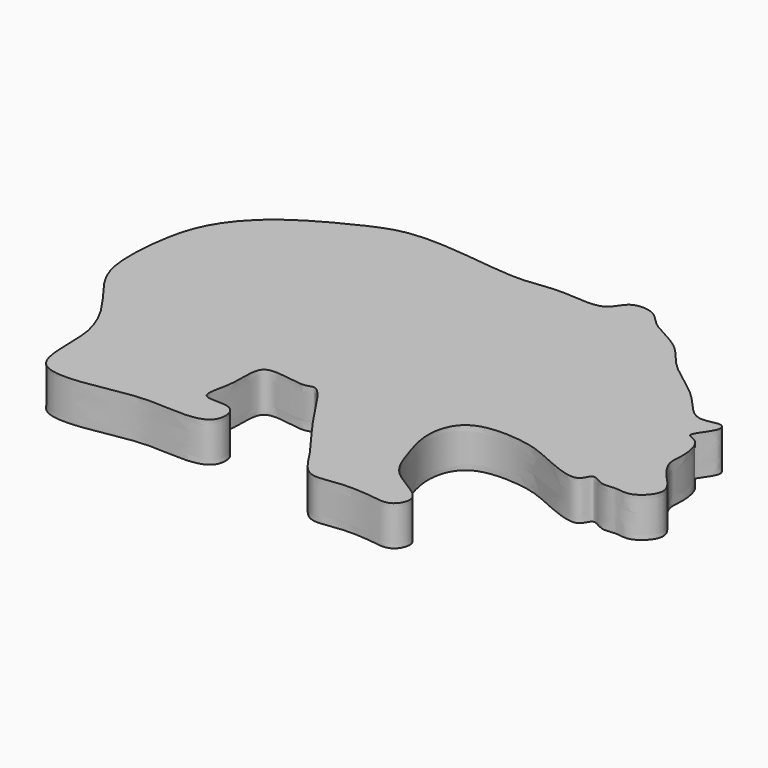
from build123d import *

# Parameters (mm, degrees)
F1_DEPTH = 5


with BuildPart() as f1:
    # F0 (on Top) → F1 (new body)
    with BuildSketch(Plane.XY):
        with BuildLine():
            add(Edge.make_bspline(
                [(-1.6607695725, 21.2969239801), (-2.4225272803, 22.1552156432), (-3.5549692431, 23.7640625162), (-3.0254708668, 25.6827274701), (-3.6630019161, 29.2772317764), (-6.265498533, 29.3770970971), (-3.5560158513, 32.1215901857), (-4.2977666877, 33.7041042999), (-7.4639512591, 32.11854526), (-10.2485610027, 36.6764293952), (-15.8515875069, 39.8890123135), (-18.1838305316, 43.8881321834), (-22.8069723578, 45.582403995), (-24.1512108843, 47.9408328918), (-27.7037084018, 48.1540143876), (-28.565319625, 44.7735128455), (-34.6189070794, 45.9134148256), (-38.9654067366, 44.7616824125), (-46.0167455003, 45.8175689357), (-53.7599476116, 46.4009738676), (-58.7179944433, 44.2433117763), (-66.2617076477, 40.2902453607), (-70.6226506905, 34.9502432479), (-71.9916289207, 29.6366749471), (-72.5327249476, 21.5558074176), (-69.0453314718, 16.973945666), (-64.0995613236, 10.4318685354), (-66.4269950686, -0.6250539683), (-54.6215853963, 2.0165219618), (-50.5339018763, 2.3343165463), (-43.1722489214, 1.5647044471), (-43.498328926, 6.9388839012), (-48.8493630187, 5.4562705306), (-46.8320643383, 10.1886841743), (-48.0042334408, 15.9130462019), (-41.5819867914, 13.7016004626), (-40.1443987116, 15.3509764618), (-36.0899605129, 8.3470943066), (-32.2310163734, 3.7951447944), (-29.7582065508, -0.7146219541), (-26.404484275, 0.1713864872), (-22.2878241065, 0.1736792596), (-19.1192410435, -0.6206789682), (-17.8367843331, 1.9066442523), (-19.4277662456, 3.5239495251), (-23.247835416, 5.3736402304), (-24.5283278002, 9.2051156993), (-26.0565974788, 13.7818185336), (-24.2014111523, 18.7944433285), (-17.3183900825, 18.5263142606), (-14.2132049312, 17.5061865866), (-7.9669045432, 14.429409624), (-7.5611167349, 17.4663292887), (-5.71829535, 15.839352899), (-3.9821622561, 16.4313184717), (-1.9873819196, 15.6757654043), (1.007001578, 18.6846452711), (-0.8680364669, 20.4037315534), (-1.6607695725, 21.2969239801)],
                knots=[0, 0, 0, 0, 0.0151611556, 0.0275913365, 0.0435532157, 0.0540222889, 0.0690026204, 0.0780496742, 0.0921269807, 0.1112591579, 0.1337974392, 0.152634215, 0.1714623465, 0.1856449227, 0.2002321093, 0.2144012393, 0.2346658463, 0.2537980273, 0.2772300675, 0.3015807468, 0.3220301845, 0.3476087614, 0.3703608782, 0.391049222, 0.4153959006, 0.4362644959, 0.4614076021, 0.4865507115, 0.5127032399, 0.5329886312, 0.5544363615, 0.5695522807, 0.5857502873, 0.6027556004, 0.6211908876, 0.6406916246, 0.6510585474, 0.674122913, 0.6974510154, 0.7157464552, 0.7308456262, 0.7491316289, 0.7642307999, 0.7767401241, 0.7890685454, 0.8068525424, 0.8243417932, 0.8436448495, 0.8620801366, 0.8834867701, 0.9013014933, 0.9223395877, 0.9332348993, 0.9446305221, 0.9563262927, 0.9686547121, 0.9842223454, 1, 1, 1, 1], degree=3))
        make_face()
    extrude(amount=F1_DEPTH)


solid = f1.part
